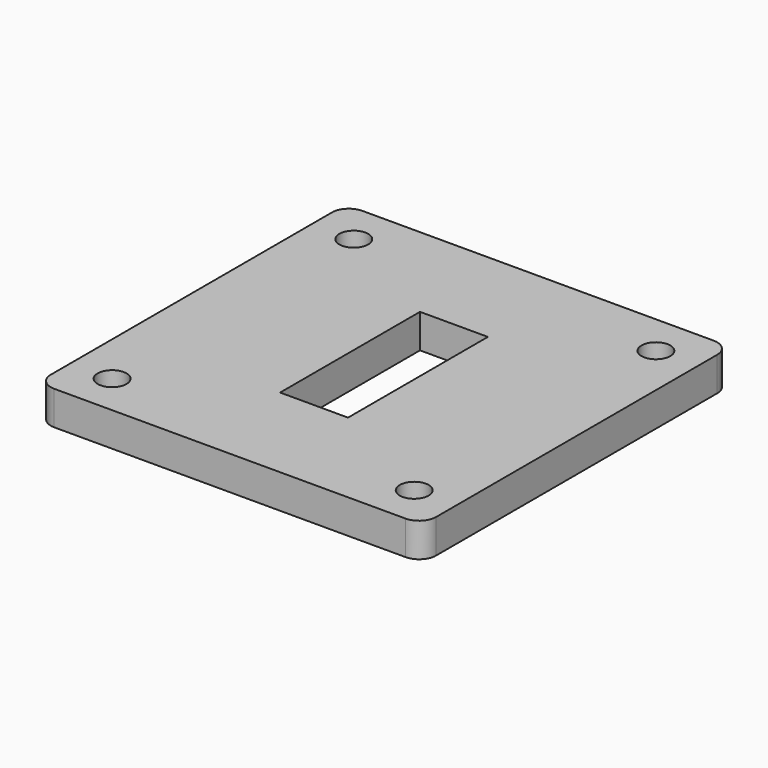
from build123d import *

# Parameters (mm, degrees)
F0_W     = 113.5
F0_H     = 113.5
F1_DEPTH = 10
F2_R     = 5
F3_R     = 4.25
F4_DEPTH = 10
F5_W     = 20
F5_H     = 51.5
F6_DEPTH = 10


with BuildPart() as f1:
    # F0 (on Top) → F1 (new body)
    with BuildSketch(Plane.XY):
        Rectangle(F0_W, F0_H)
    extrude(amount=F1_DEPTH)

    # F2
    f2_edges = [f1.edges().sort_by_distance(p)[0] for p in [
        (-56.75, -56.75, 5),
        (-56.75, 56.75, 5),
        (56.75, 56.75, 5),
        (56.75, -56.75, 5),
    ]]
    fillet(f2_edges, radius=F2_R)

    # F3 (on face) → F4 (cut)
    with BuildSketch(Plane.XY.offset(10)):
        with Locations((-44.5, -44.5)):
            Circle(F3_R)
        with Locations((44.5, -44.5)):
            Circle(F3_R)
        with Locations((-44.5, 44.5)):
            Circle(F3_R)
        with Locations((44.5, 44.5)):
            Circle(F3_R)
    extrude(amount=-F4_DEPTH, mode=Mode.SUBTRACT)

    # F5 (on face) → F6 (cut)
    with BuildSketch(Plane.XY.offset(10)):
        Rectangle(F5_W, F5_H)
    extrude(amount=-F6_DEPTH, mode=Mode.SUBTRACT)


solid = f1.part
